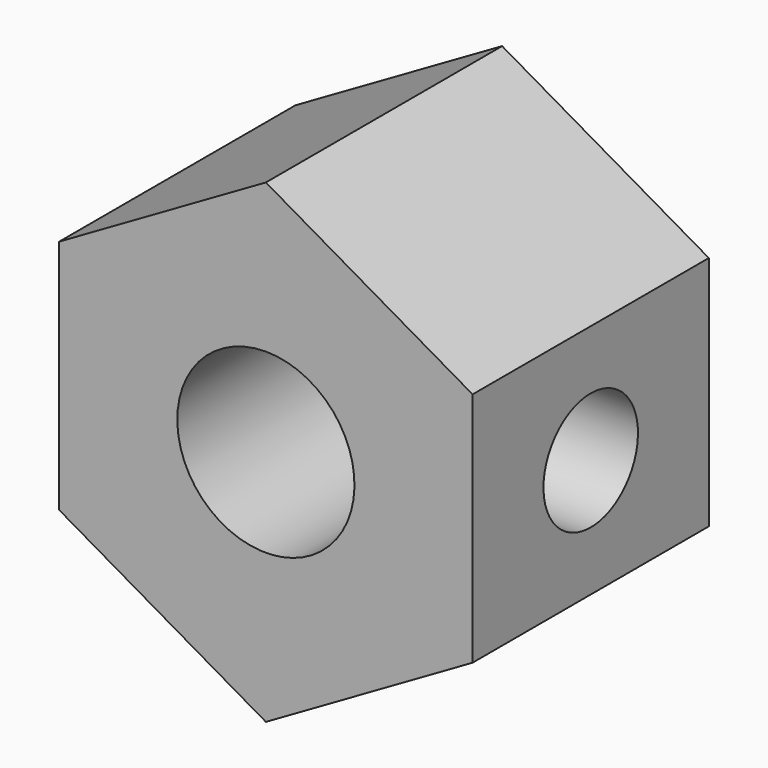
from build123d import *

# Parameters (mm, degrees)
F0_R     = 1.5
F1_DEPTH = 5
F2_R     = 1
F3_DEPTH = 3
F5_ANGLE = 90
F7_ANGLE = 90


with BuildPart() as f1:
    # F0 (on Top) → F1 (new body)
    with BuildSketch(Plane.XY):
        Polygon((2, 3.5), (-2, 3.5), (-4.020726, 0), (-2, -3.5), (2, -3.5), (4.020726, 0), align=None)
        Circle(F0_R, mode=Mode.SUBTRACT)
    extrude(amount=F1_DEPTH)

    # F2 (on face) → F3 (cut)
    with BuildSketch(Plane.XZ.offset(3.5)):
        with Locations((0, 2.5)):
            Circle(F2_R)
    extrude(amount=-F3_DEPTH, mode=Mode.SUBTRACT)


with BuildPart() as f1_1:
    # F5: moved
    add(f1.part.rotate(Axis((2.035894, 0, 0), (1, 0, 0)), F5_ANGLE))


with BuildPart() as f1_2:
    # F7: moved
    add(f1_1.part.rotate(Axis((0, 0.571142, 0), (0, -1, 0)), F7_ANGLE))


solid = f1_2.part
